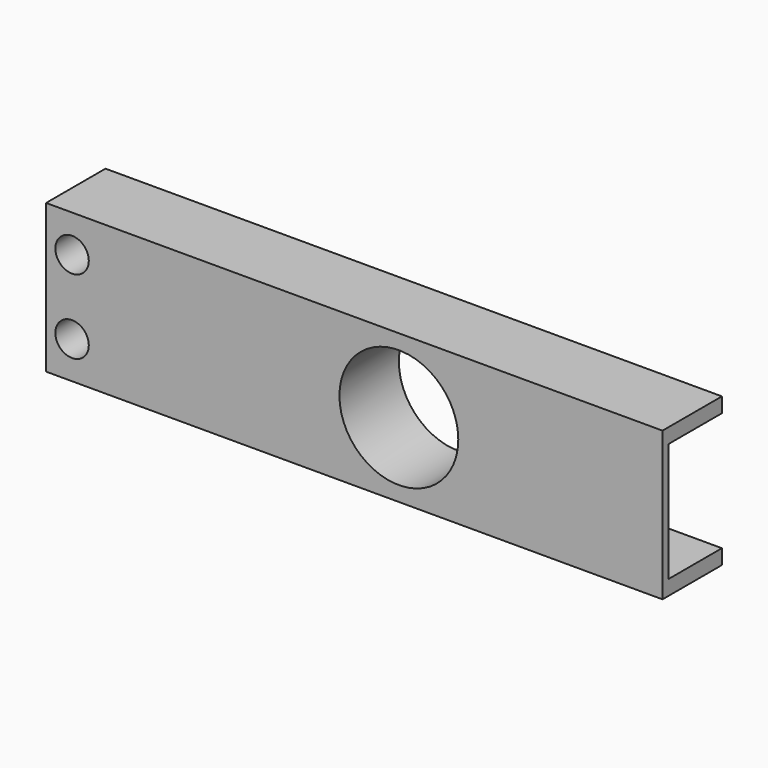
from build123d import *

# Parameters (mm, degrees)
F0_R     = 2.25
F1_DEPTH = 10
F2_DEPTH = 9


with BuildPart() as f1:
    # F0 (on Front) → F1 (new body)
    with BuildSketch(Plane.XZ):
        with BuildLine():
            Line((35.5, 10), (-47.5, 10))
            Line((-47.5, 10), (-47.5, -10))
            Line((-47.5, -10), (35.5, -10))
            Line((35.5, -10), (35.5, -8))
            Line((35.5, -8), (23, -8))
            ThreePointArc((23, -8), (20.87868, -7.12132), (20, -5))
            Line((20, -5), (20, -4))
            Line((20, -4), (6.928203, -4))
            ThreePointArc((6.928203, -4), (-8, 0), (6.928203, 4))
            Line((6.928203, 4), (20, 4))
            Line((20, 4), (20, 5))
            ThreePointArc((20, 5), (20.87868, 7.12132), (23, 8))
            Line((23, 8), (35.5, 8))
            Line((35.5, 8), (35.5, 10))
        make_face()
        with Locations((-44, -5)):
            Circle(F0_R, mode=Mode.SUBTRACT)
        with Locations((-44, 5)):
            Circle(F0_R, mode=Mode.SUBTRACT)
        with BuildLine():
            Line((35.5, -8), (35.5, 8))
            Line((35.5, 8), (23, 8))
            ThreePointArc((23, 8), (20.87868, 7.12132), (20, 5))
            Line((20, 5), (20, 4))
            Line((20, 4), (6.928203, 4))
            ThreePointArc((6.928203, 4), (7.727407, 2.070552), (8, 0))
            ThreePointArc((8, 0), (7.727407, -2.070552), (6.928203, -4))
            Line((6.928203, -4), (20, -4))
            Line((20, -4), (20, -5))
            ThreePointArc((20, -5), (20.87868, -7.12132), (23, -8))
            Line((23, -8), (35.5, -8))
        make_face()
    extrude(amount=F1_DEPTH)

    # F0 (on Front) → F2 (cut)
    with BuildSketch(Plane.XZ):
        with BuildLine():
            Line((35.5, -8), (35.5, 8))
            Line((35.5, 8), (23, 8))
            ThreePointArc((23, 8), (20.87868, 7.12132), (20, 5))
            Line((20, 5), (20, 4))
            Line((20, 4), (6.928203, 4))
            ThreePointArc((6.928203, 4), (7.727407, 2.070552), (8, 0))
            ThreePointArc((8, 0), (7.727407, -2.070552), (6.928203, -4))
            Line((6.928203, -4), (20, -4))
            Line((20, -4), (20, -5))
            ThreePointArc((20, -5), (20.87868, -7.12132), (23, -8))
            Line((23, -8), (35.5, -8))
        make_face()
    extrude(amount=F2_DEPTH, mode=Mode.SUBTRACT)


solid = f1.part
